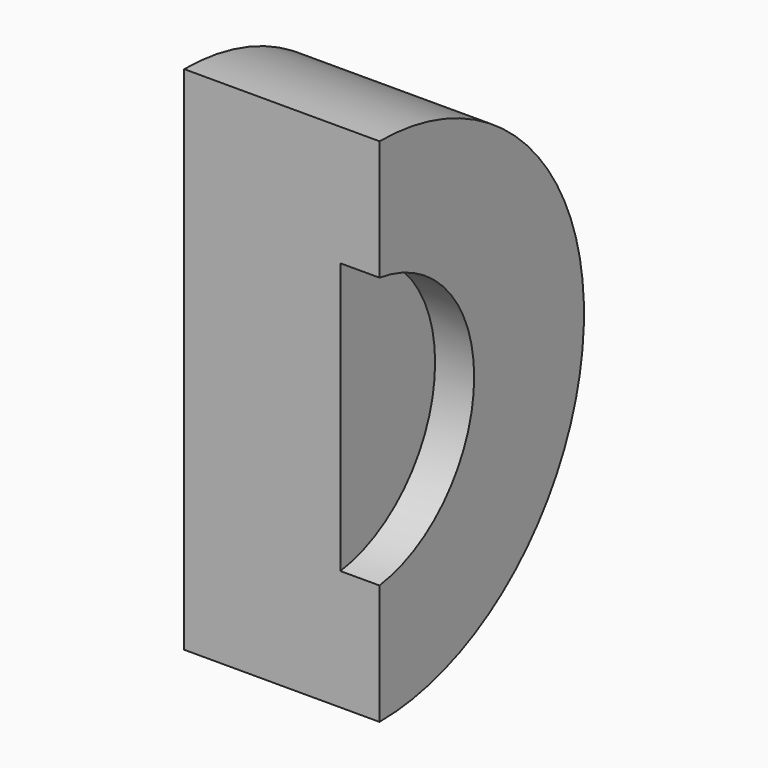
from build123d import *

# Parameters (mm, degrees)
F0_R     = 130.860579
F1_DEPTH = 100
F2_R     = 70
F3_DEPTH = 20
F4_W     = 309.986204
F4_H     = 334.951535
F5_DEPTH = 150


with BuildPart() as f1:
    # F0 (on Right) → F1 (new body)
    with BuildSketch(Plane.YZ):
        Circle(F0_R)
    extrude(amount=F1_DEPTH)

    # F2 (on face) → F3 (cut)
    with BuildSketch(Plane.YZ.offset(100)):
        with Locations((-9.41853, 0)):
            Circle(F2_R)
    extrude(amount=-F3_DEPTH, mode=Mode.SUBTRACT)

    # F4 (on Front) → F5 (cut)
    with BuildSketch(Plane.XZ):
        with Locations((44.957653, 2.534858)):
            Rectangle(F4_W, F4_H)
    extrude(amount=F5_DEPTH, mode=Mode.SUBTRACT)


solid = f1.part
